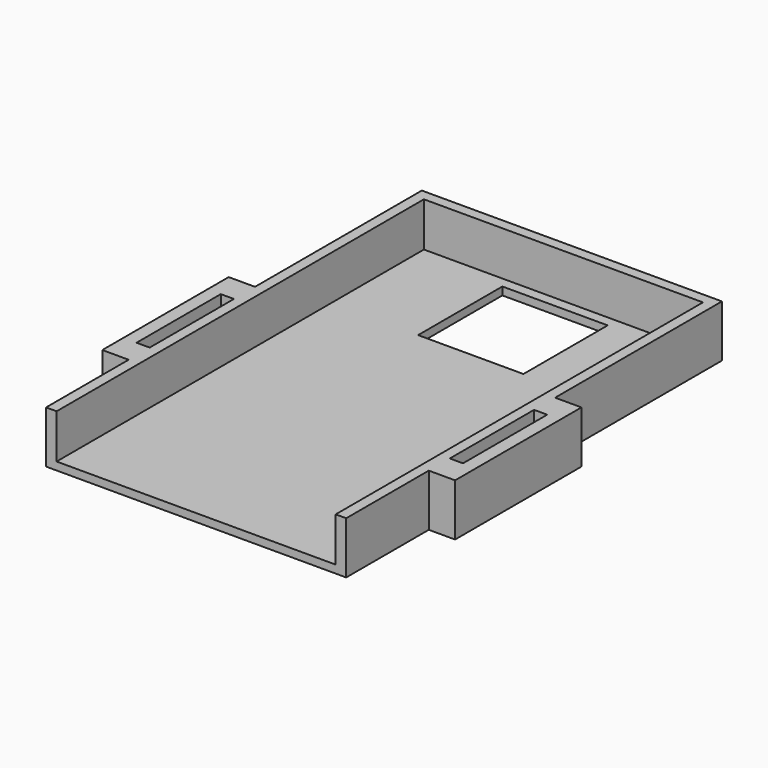
from build123d import *

# Parameters (mm, degrees)
F0_W      = 72.39
F0_H      = 138.684
F1_DEPTH  = 1.905
F2_W      = 72.39
F2_H      = 138.684
F2_W_2    = 67.31
F2_H_2    = 133.604
F3_DEPTH  = 10.668
F4_W      = 25.4
F4_H      = 25.4
F5_DEPTH  = 1.905
F6_W      = 6.35
F6_H      = 12.573
F7_DEPTH  = 3.175
F8_W      = 3.175
F8_H      = 12.573
F9_DEPTH  = 38.1
F10_W     = 3.175
F10_H     = 25.4
F11_DEPTH = 12.573
F12_W     = 72.39
F12_H     = 25.4
F13_DEPTH = 12.574


with BuildPart() as f1:
    # F0 (on Top) → F1 (new body)
    with BuildSketch(Plane.XY):
        with Locations((36.195, 69.342)):
            Rectangle(F0_W, F0_H)
    extrude(amount=F1_DEPTH)

    # F2 (on face) → F3 (join)
    with BuildSketch(Plane.XY.offset(1.905)):
        with Locations((36.195, 69.342)):
            Rectangle(F2_W, F2_H)
        with Locations((36.195, 69.342)):
            Rectangle(F2_W_2, F2_H_2, mode=Mode.SUBTRACT)
    extrude(amount=F3_DEPTH)

    # F4 (on face) → F5 (cut, through all)
    with BuildSketch(Plane(origin=(0, 0, 0), x_dir=(1, 0, 0), z_dir=(0, 0, -1))):
        with Locations((36.195, -120.904)):
            Rectangle(F4_W, F4_H)
    extrude(amount=-F5_DEPTH, mode=Mode.SUBTRACT)

    # F6 (on face) → F7 (join)
    with BuildSketch(Plane.YZ.offset(72.39)):
        with Locations((53.467, 6.2865)):
            Rectangle(F6_W, F6_H)
        with Locations((85.217, 6.2865)):
            Rectangle(F6_W, F6_H)
    extrude(amount=F7_DEPTH)

    # F8 (on face) → F9 (join, through all)
    with BuildSketch(Plane.XZ.offset(-50.292)):
        with Locations((77.1525, 6.2865)):
            Rectangle(F8_W, F8_H)
    extrude(amount=-F9_DEPTH)

    # F10 (on face) → F11 (join, through all)
    with BuildSketch(Plane.XY.offset(12.573)):
        Polygon((0, 82.042), (0, 88.392), (-6.35, 88.392), (-6.35, 82.042), (-3.175, 82.042), align=None)
        with Locations((-4.7625, 69.342)):
            Rectangle(F10_W, F10_H)
        Polygon((-3.175, 56.642), (-6.35, 56.642), (-6.35, 50.292), (0, 50.292), (0, 56.642), align=None)
    extrude(amount=-F11_DEPTH)

    # F12 (on face) → F13 (cut, through all)
    with BuildSketch(Plane(origin=(0, 0, 0), x_dir=(1, 0, 0), z_dir=(0, 0, -1))):
        with Locations((36.195, -12.7)):
            Rectangle(F12_W, F12_H)
    extrude(amount=-F13_DEPTH, mode=Mode.SUBTRACT)


solid = f1.part
